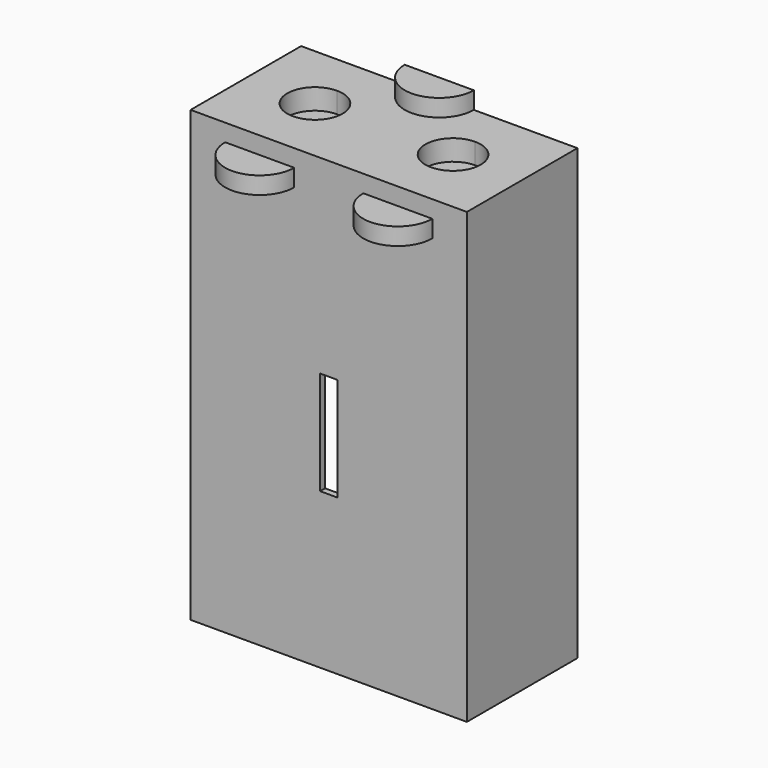
from build123d import *

# Parameters (mm, degrees)
F0_W      = 80
F0_H      = 120
F1_DEPTH  = 40
F2_T      = -1.8
F0_H_2    = 10
F3_DEPTH  = 40
F5_DEPTH  = 40
F8_DEPTH  = 5
F9_DEPTH  = 6
F10_DEPTH = 10
F12_DEPTH = 5


with BuildPart() as f1:
    # F0 (on Front) → F1 (new body)
    with BuildSketch(Plane.XZ):
        with Locations((-40, 60)):
            Rectangle(F0_W, F0_H)
    extrude(amount=F1_DEPTH)

    # F2
    f2_openings = [f1.faces().sort_by_distance(p)[0] for p in [
        (-40, 0, 60),
    ]]
    offset(amount=F2_T, openings=f2_openings)

    # F0 (on Front) → F3 (join)
    with BuildSketch(Plane.XZ):
        with Locations((-40, 125)):
            Rectangle(F0_W, F0_H_2)
    extrude(amount=F3_DEPTH)

    # F4 (on face) → F5 (cut)
    with BuildSketch(Plane.XZ):
        Polygon((-42.5, 45), (-40, 45), (-37.5, 45), (-37.5, 75), (-42.5, 75), align=None)
    extrude(amount=F5_DEPTH, mode=Mode.SUBTRACT)

    # F7 (on offset) → F8 (join)
    with BuildSketch(Plane.XY.offset(130)):
        with BuildLine():
            ThreePointArc((-50, 0), (-40, -10), (-30, 0))
            Line((-30, 0), (-40, 0))
            Line((-40, 0), (-50, 0))
        make_face()
    extrude(amount=F8_DEPTH)

    # F7 (on offset) → F9 (cut)
    with BuildSketch(Plane.XY.offset(130)):
        with BuildLine():
            ThreePointArc((-12, -20), (-14.343146, -14.343146), (-20, -12))
            ThreePointArc((-20, -12), (-28, -20), (-20, -28))
            ThreePointArc((-20, -28), (-14.343146, -25.656854), (-12, -20))
        make_face()
        with BuildLine():
            ThreePointArc((-52, -20), (-54.343146, -14.343146), (-60, -12))
            ThreePointArc((-60, -12), (-68, -20), (-60, -28))
            ThreePointArc((-60, -28), (-54.343146, -25.656854), (-52, -20))
        make_face()
    extrude(amount=-F9_DEPTH, mode=Mode.SUBTRACT)

    # F7 (on offset) → F10 (join)
    with BuildSketch(Plane.XY.offset(130)):
        with BuildLine():
            ThreePointArc((-50, -40), (-52.928932, -32.928932), (-60, -30))
            ThreePointArc((-60, -30), (-67.071068, -47.071068), (-50, -40))
        make_face()
        with BuildLine():
            ThreePointArc((-10, -40), (-12.928932, -32.928932), (-20, -30))
            ThreePointArc((-20, -30), (-27.071068, -47.071068), (-10, -40))
        make_face()
    extrude(amount=-F10_DEPTH)

    # F11 (on offset) → F12 (cut)
    with BuildSketch(Plane.XY.offset(130)):
        with BuildLine():
            ThreePointArc((-70, -40), (-60, -50), (-50, -40))
            Line((-50, -40), (-60, -40))
            Line((-60, -40), (-70, -40))
        make_face()
        with BuildLine():
            ThreePointArc((-30, -40), (-20, -50), (-10, -40))
            Line((-10, -40), (-20, -40))
            Line((-20, -40), (-30, -40))
        make_face()
    extrude(amount=-F12_DEPTH, mode=Mode.SUBTRACT)


solid = f1.part
